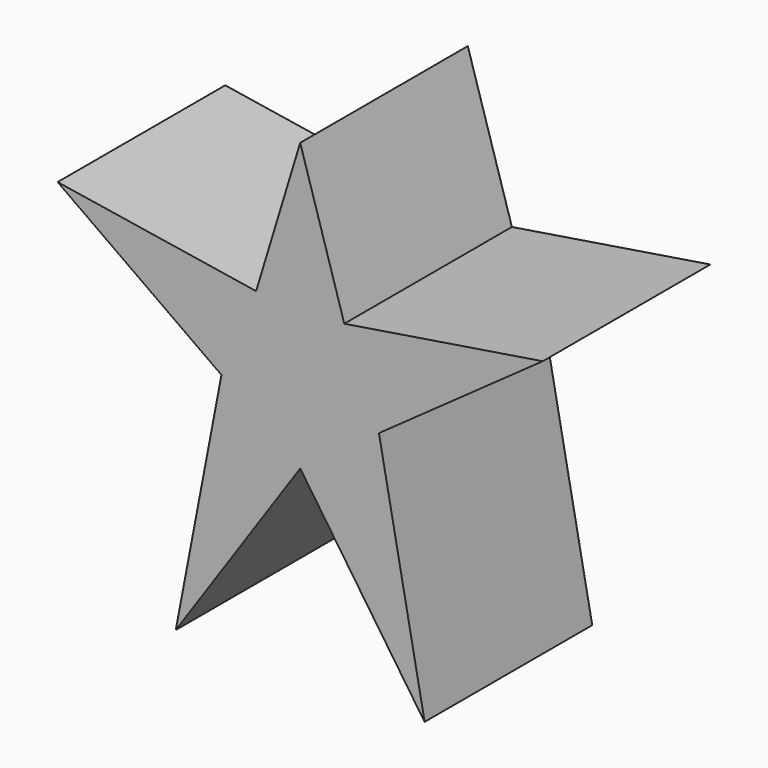
from build123d import *

# Parameters (mm, degrees)
F1_DEPTH = 25.4


with BuildPart() as f1:
    # F0 (on Front) → F1 (new body)
    with BuildSketch(Plane.XZ):
        Polygon((0, -6.874368), (15.085418, -29.025108), (9.547733, 0), (29.407017, 14.130645), (5.34673, 10.311551), (0, 27.87938), align=None)
    extrude(amount=F1_DEPTH)

    # F2: F1 across plane


with BuildPart() as f1_1:
    add(f1.part)
    add(f1.part.mirror(Plane.YZ))


solid = f1_1.part
